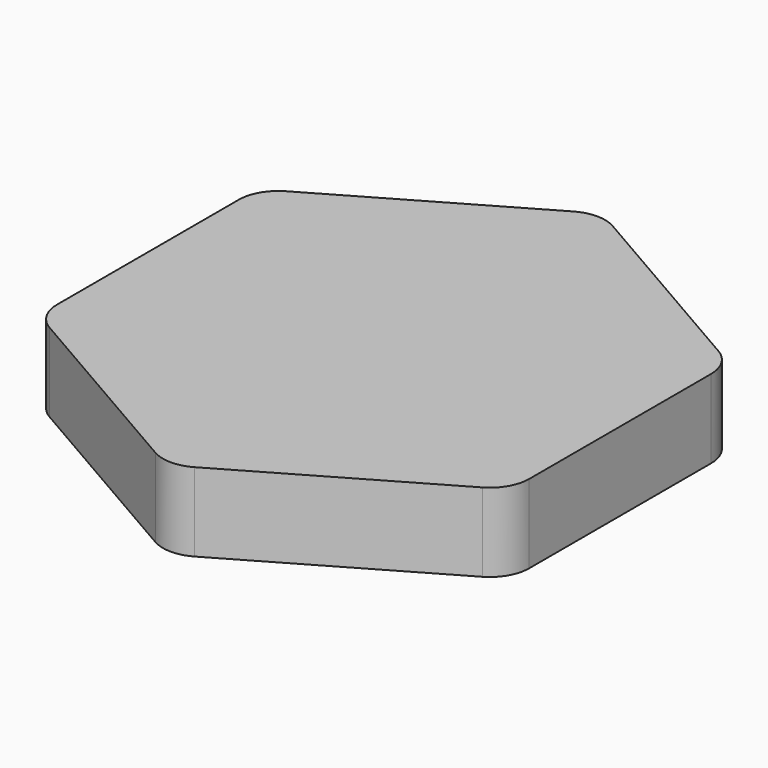
from build123d import *

# Parameters (mm, degrees)
PAD_DEPTH = 10
FILLET_R  = 5


with BuildPart() as part:
    # Sketch → Pad (new body)
    with BuildSketch(Plane.XY):
        Polygon((-30, 17.320508), (-30, -17.320508), (0, -34.641016), (30, -17.320508), (30, 17.320508), (0, 34.641016), align=None)
    extrude(amount=PAD_DEPTH)

    # Fillet
    fillet_edges = [part.edges().sort_by_distance(p)[0] for p in [
        (-30, 17.320508, 5),
        (-30, -17.320508, 5),
        (0, -34.641016, 5),
        (30, -17.320508, 5),
        (30, 17.320508, 5),
        (0, 34.641016, 5),
    ]]
    fillet(fillet_edges, radius=FILLET_R)


solid = part.part
